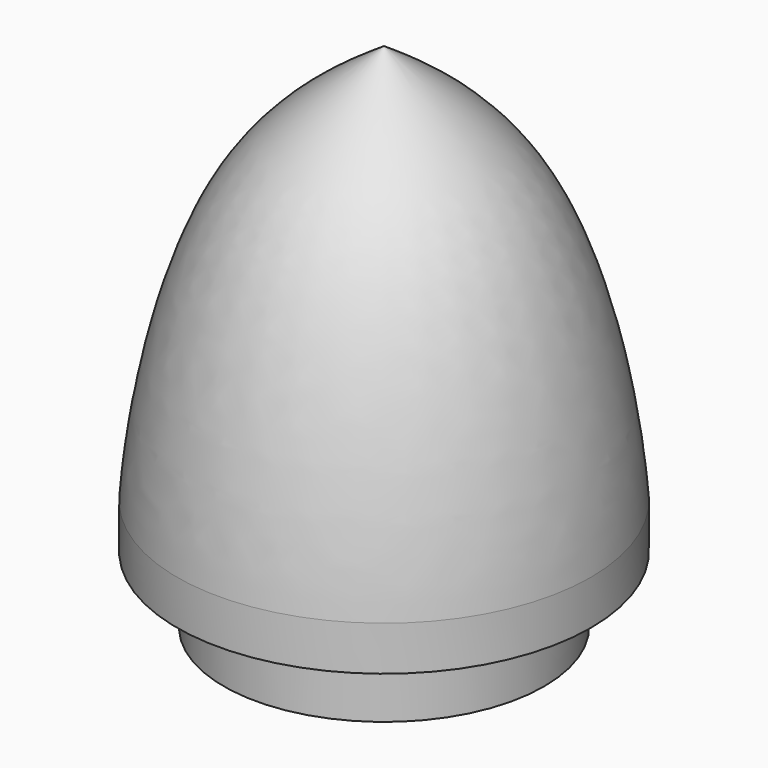
from build123d import *

# Parameters (mm, degrees)
F0_R     = 3.6
F1_DEPTH = 1.5
F0_R_2   = 4.65
F2_DEPTH = 1


with BuildPart() as f1:
    # F0 (on Top) → F1 (new body)
    with BuildSketch(Plane.XY):
        Circle(F0_R)
    extrude(amount=-F1_DEPTH)


with BuildPart() as f2:
    # F0 (on Top) → F2 (new body)
    with BuildSketch(Plane.XY):
        Circle(F0_R_2)
        Circle(F0_R, mode=Mode.SUBTRACT)
        Circle(F0_R)
    extrude(amount=F2_DEPTH)


with BuildPart() as f4:
    # F3 (on Front) → F4 (revolve)
    with BuildSketch(Plane.XZ):
        with BuildLine():
            add(Edge.make_bspline(
                [(0, 10), (1.1435414179, 9.2391139842), (3.6583657211, 7.4756786018), (4.5226199194, 2.78332867), (4.65, 1)],
                knots=[0, 0, 0, 0, 0.4527395759, 1, 1, 1, 1], degree=3))
            Line((0, 10), (0, 1.0506899562))
            Line((0, 1.0506899562), (4.65, 1))
        make_face()
    revolve(axis=Axis((0, 0, 5.5253449781), (0, 0, 1)))


solid = Compound([f1.part, f2.part, f4.part])
